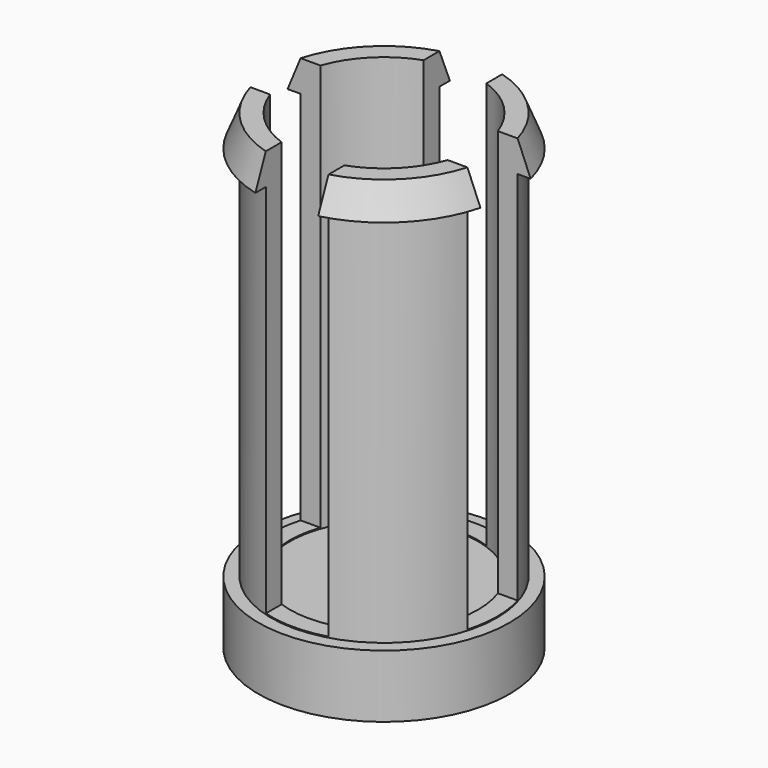
from build123d import *

# Parameters (mm, degrees)
F0_R     = 2
F1_DEPTH = 1
F4_R     = 1.5
F5_DEPTH = 6.5
F7_W     = 2
F7_H     = 1
F7_W_2   = 1
F7_H_2   = 2
F8_DEPTH = 6.5


with BuildPart() as f1:
    # F0 (on Top) → F1 (new body)
    with BuildSketch(Plane.XY):
        Circle(F0_R)
    extrude(amount=F1_DEPTH)


with BuildPart() as f3:
    # F2 (on Front) → F3 (revolve)
    with BuildSketch(Plane.XZ):
        Polygon((1.8, 7.504579), (0, 7.504579), (0, 1.004579), (1.8, 1.004579), (1.8, 7.004579), (2, 7.004579), align=None)
    revolve(axis=Axis((0, 0, 0), (0, 0, 1)))

    # F4 (on face) → F5 (cut)
    with BuildSketch(Plane.XY.offset(7.504579)):
        Circle(F4_R)
    extrude(amount=-F5_DEPTH, mode=Mode.SUBTRACT)

    # F7 (on offset) → F8 (cut)
    with BuildSketch(Plane.XY.offset(7.521)):
        with Locations((-1.5, 0)):
            Rectangle(F7_W, F7_H)
        with Locations((0, 1.5)):
            Rectangle(F7_W_2, F7_H_2)
        with Locations((1.5, 0)):
            Rectangle(F7_W, F7_H)
        with Locations((0, -1.5)):
            Rectangle(F7_W_2, F7_H_2)
    extrude(amount=-F8_DEPTH, mode=Mode.SUBTRACT)


solid = Compound([f1.part, f3.part])
